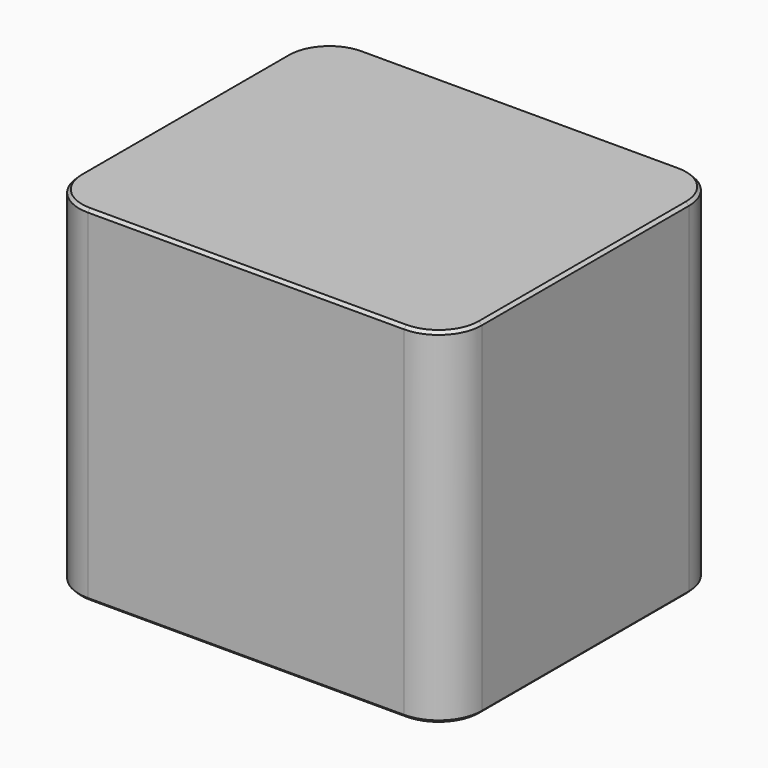
from build123d import *

# Parameters (mm, degrees)
F1_DEPTH = 12
F2_SIZE  = 0.1
F3_R     = 2
F4_DEPTH = 1


with BuildPart() as f1:
    # F0 (on Top) → F1 (new body)
    with BuildSketch(Plane.XY):
        with BuildLine():
            Line((-5.5, -6), (5.5, -6))
            ThreePointArc((5.5, -6), (6.56066, -5.56066), (7, -4.5))
            Line((7, -4.5), (7, 4.5))
            ThreePointArc((7, 4.5), (6.56066, 5.56066), (5.5, 6))
            Line((5.5, 6), (-5.5, 6))
            ThreePointArc((-5.5, 6), (-6.56066, 5.56066), (-7, 4.5))
            Line((-7, 4.5), (-7, -4.5))
            ThreePointArc((-7, -4.5), (-6.56066, -5.56066), (-5.5, -6))
        make_face()
    extrude(amount=F1_DEPTH)

    # F2
    f2_edges = [f1.edges().sort_by_distance(p)[0] for p in [
        (0, -6, 12),
        (6.56066, -5.56066, 12),
        (7, 0, 12),
        (6.56066, 5.56066, 12),
        (0, 6, 12),
        (-6.56066, 5.56066, 12),
        (-7, 0, 12),
        (-6.56066, -5.56066, 12),
        (0, -6, 0),
        (6.56066, -5.56066, 0),
        (7, 0, 0),
        (6.56066, 5.56066, 0),
        (0, 6, 0),
        (-6.56066, 5.56066, 0),
        (-7, 0, 0),
        (-6.56066, -5.56066, 0),
    ]]
    chamfer(f2_edges, length=F2_SIZE)

    # F3 (on face) → F4 (join)
    with BuildSketch(Plane(origin=(0, 0, 0), x_dir=(1, 0, 0), z_dir=(0, 0, -1))):
        Circle(F3_R)
    extrude(amount=F4_DEPTH)


solid = f1.part
